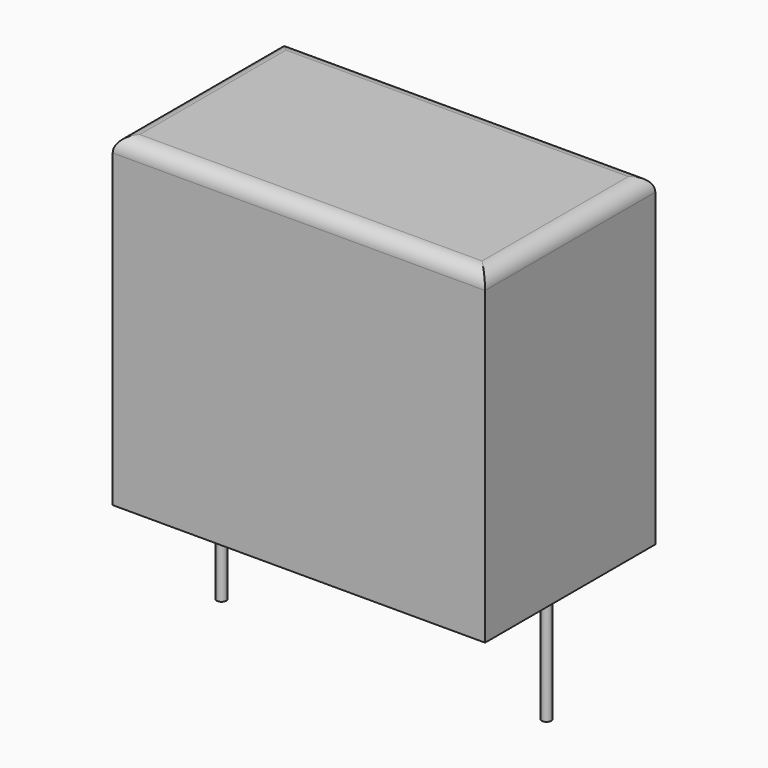
from build123d import *

# Parameters (mm, degrees)
F0_W     = 31.5
F0_H     = 18
F0_R     = 0.4
F1_DEPTH = 27.5
F2_R     = 0.4
F3_DEPTH = 10
F4_R     = 1.27


with BuildPart() as f1:
    # F0 (on Top) → F1 (new body)
    with BuildSketch(Plane.XY):
        Rectangle(F0_W, F0_H)
        with Locations((-13.75, 0)):
            Circle(F0_R, mode=Mode.SUBTRACT)
        with Locations((13.75, 0)):
            Circle(F0_R, mode=Mode.SUBTRACT)
        with Locations((13.75, 0)):
            Circle(F0_R)
        with Locations((-13.75, 0)):
            Circle(F0_R)
    extrude(amount=F1_DEPTH)

    # F2 (on face) → F3 (join)
    with BuildSketch(Plane(origin=(0, 0, 0), x_dir=(1, 0, 0), z_dir=(0, 0, -1))):
        with Locations((13.75, 0)):
            Circle(F2_R)
        with Locations((-13.75, 0)):
            Circle(F2_R)
    extrude(amount=F3_DEPTH)

    # F4
    f4_edges = [f1.edges().sort_by_distance(p)[0] for p in [
        (-15.75, 0, 27.5),
        (0, -9, 27.5),
        (15.75, 0, 27.5),
        (0, 9, 27.5),
    ]]
    fillet(f4_edges, radius=F4_R)


solid = f1.part
